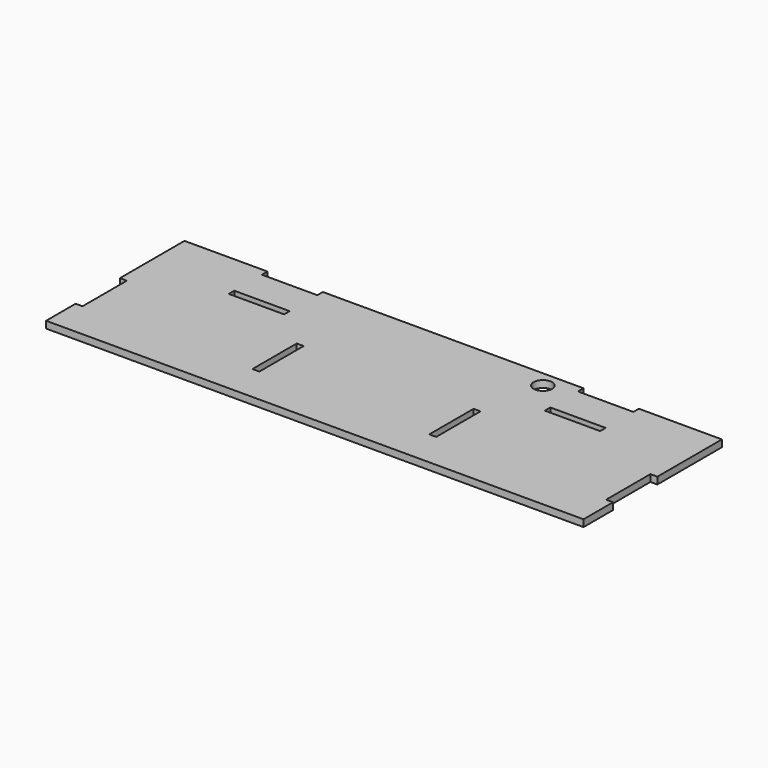
from build123d import *

# Parameters (mm, degrees)
F0_W     = 19.05
F0_H     = 152.4
F0_W_2   = 152.4
F0_H_2   = 19.05
F0_R     = 25.4
F1_DEPTH = 19.05


with BuildPart() as f1:
    # F0 (on Top) → F1 (new body)
    with BuildSketch(Plane.XY):
        Polygon((-511.175, 0), (-739.775, 0), (-739.775, -222.25), (-720.725, -222.25), (-720.725, -374.65), (-739.775, -374.65), (-739.775, -476.25), (739.775, -476.25), (739.775, -374.65), (720.725, -374.65), (720.725, -222.25), (739.775, -222.25), (739.775, -95.25), (739.775, 0), (511.175, 0), (511.175, -19.05), (358.775, -19.05), (358.775, 0), (-358.775, 0), (-358.775, -19.05), (-511.175, -19.05), align=None)
        with Locations((-243.416667, -298.45)):
            Rectangle(F0_W, F0_H, mode=Mode.SUBTRACT)
        with Locations((243.416667, -298.45)):
            Rectangle(F0_W, F0_H, mode=Mode.SUBTRACT)
        with Locations((-434.975, -123.825)):
            Rectangle(F0_W_2, F0_H_2, mode=Mode.SUBTRACT)
        with Locations((434.975, -123.825)):
            Rectangle(F0_W_2, F0_H_2, mode=Mode.SUBTRACT)
        with Locations((282.575, -44.45)):
            Circle(F0_R, mode=Mode.SUBTRACT)
    extrude(amount=F1_DEPTH)


solid = f1.part
